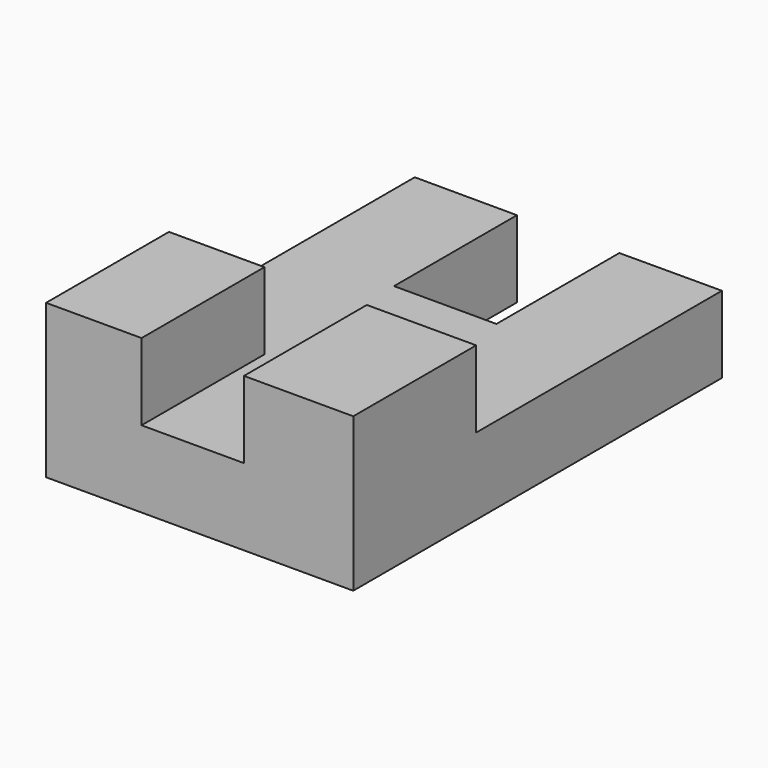
from build123d import *

# Parameters (mm, degrees)
F1_DEPTH = 15
F2_W     = 18.648164
F2_H     = 30
F2_W_2   = 21.351836
F3_DEPTH = 15


with BuildPart() as f1:
    # F0 (on Top) → F1 (new body)
    with BuildSketch(Plane.XY):
        Polygon((-46.231353, 44.005111), (-46.231353, -45.994889), (13.768647, -45.994889), (13.768647, 44.005111), (-6.231353, 43.956288), (-6.231353, 13.956288), (-26.231353, 13.956288), (-26.231353, 43.956288), align=None)
    extrude(amount=F1_DEPTH)

    # F2 (on face) → F3 (join)
    with BuildSketch(Plane.XY.offset(15)):
        with Locations((-36.907271, -30.994889)):
            Rectangle(F2_W, F2_H)
        with Locations((3.092729, -30.994889)):
            Rectangle(F2_W_2, F2_H)
    extrude(amount=F3_DEPTH)


solid = f1.part
